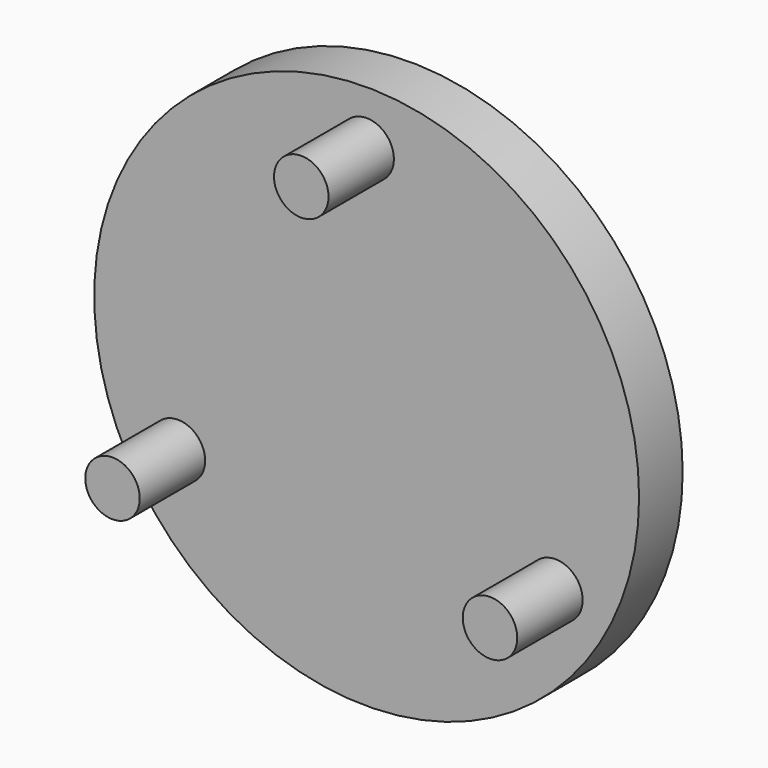
from build123d import *

# Parameters (mm, degrees)
F0_R     = 10
F1_DEPTH = 2
F2_R     = 1
F3_DEPTH = 3
F4_R     = 1
F5_DEPTH = 4.7


with BuildPart() as f1:
    # F0 (on Front) → F1 (new body)
    with BuildSketch(Plane.XZ):
        Circle(F0_R)
    extrude(amount=F1_DEPTH)

    # F2 (on face) → F3 (join)
    with BuildSketch(Plane.XZ.offset(2)):
        with Locations((0, 8)):
            Circle(F2_R)
        with Locations((-6.9282032303, -4)):
            Circle(F2_R)
        with Locations((6.9282032303, -4)):
            Circle(F2_R)
    extrude(amount=F3_DEPTH)

    # F4 (on face) → F5 (join)
    with BuildSketch(Plane(origin=(0, 0, 0), x_dir=(-1, 0, 0), z_dir=(0, 1, 0))):
        Circle(F4_R)
    extrude(amount=F5_DEPTH)


solid = f1.part
